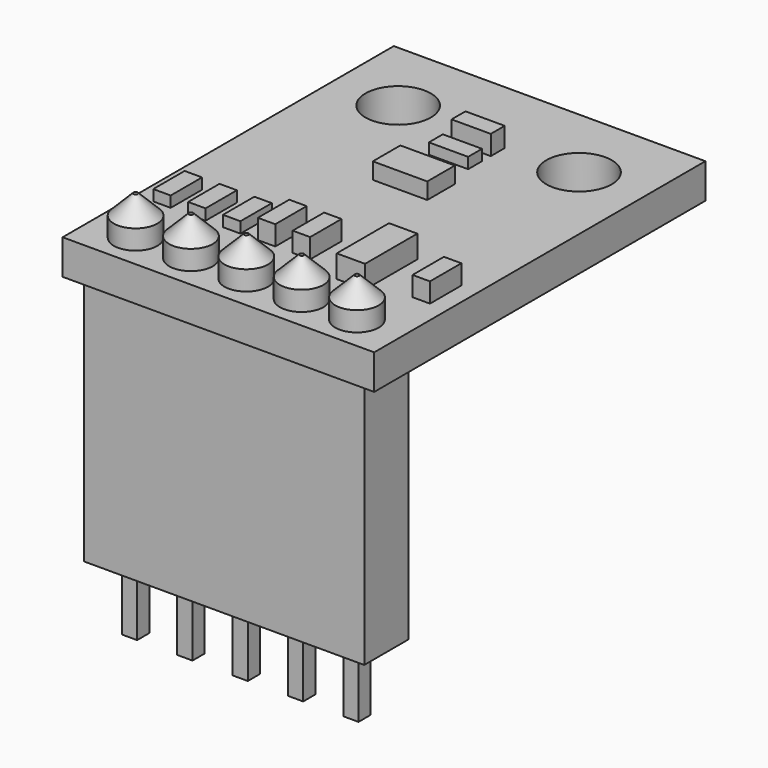
from build123d import *

# Parameters (mm, degrees)
F0_W      = 14.3
F0_H      = 19
F0_R      = 1
F0_W_2    = 0.8
F0_H_2    = 1.8
F0_W_3    = 1.3
F0_H_3    = 3
F0_W_4    = 2.5
F0_H_4    = 1.58
F0_W_5    = 1.8
F0_H_5    = 0.8
F0_R_2    = 1.5
F1_DEPTH  = 1.6
F2_DEPTH  = 0.75
F3_DEPTH  = 0.9
F4_DEPTH  = 0.5
F5_DEPTH  = 1.04
F6_DEPTH  = 1.8
F7_SIZE2  = 0.9
F7_SIZE   = 0.9
F8_W      = 0.7
F8_H      = 0.7
F9_DEPTH  = 14.4
F8_W_2    = 12.86
F8_H_2    = 2.54
F10_DEPTH = 11.4


with BuildPart() as f1:
    # F0 (on Top) → F1 (new body)
    with BuildSketch(Plane.XY):
        Rectangle(F0_W, F0_H)
        with Locations((-5.08, -7.9)):
            Circle(F0_R, mode=Mode.SUBTRACT)
        with Locations((-2.54, -7.9)):
            Circle(F0_R, mode=Mode.SUBTRACT)
        with BuildLine():
            ThreePointArc((0, -6.9), (1, -7.9), (0, -8.9))
            ThreePointArc((0, -8.9), (-1, -7.9), (0, -6.9))
        make_face(mode=Mode.SUBTRACT)
        with Locations((-5.95, -4.4)):
            Rectangle(F0_W_2, F0_H_2, mode=Mode.SUBTRACT)
        with Locations((-4.35, -4.4)):
            Rectangle(F0_W_2, F0_H_2, mode=Mode.SUBTRACT)
        with Locations((-2.75, -4.4)):
            Rectangle(F0_W_2, F0_H_2, mode=Mode.SUBTRACT)
        with Locations((-1.15, -4.4)):
            Rectangle(F0_W_2, F0_H_2, mode=Mode.SUBTRACT)
        with Locations((2.54, -7.9)):
            Circle(F0_R, mode=Mode.SUBTRACT)
        with Locations((5.08, -7.9)):
            Circle(F0_R, mode=Mode.SUBTRACT)
        with Locations((0.45, -4.4)):
            Rectangle(F0_W_2, F0_H_2, mode=Mode.SUBTRACT)
        with Locations((3.2, -4.4)):
            Rectangle(F0_W_3, F0_H_3, mode=Mode.SUBTRACT)
        with Locations((5.95, -4.4)):
            Rectangle(F0_W_2, F0_H_2, mode=Mode.SUBTRACT)
        with Locations((0, 1.71)):
            Rectangle(F0_W_4, F0_H_4, mode=Mode.SUBTRACT)
        with Locations((0, 4.1)):
            Rectangle(F0_W_5, F0_H_5, mode=Mode.SUBTRACT)
        with Locations((-4.15, 6)):
            Circle(F0_R_2, mode=Mode.SUBTRACT)
        with Locations((0, 5.4)):
            Rectangle(F0_W_5, F0_H_5, mode=Mode.SUBTRACT)
        with Locations((4.15, 6)):
            Circle(F0_R_2, mode=Mode.SUBTRACT)
        with Locations((0, 1.71)):
            Rectangle(F0_W_4, F0_H_4)
        with Locations((5.95, -4.4)):
            Rectangle(F0_W_2, F0_H_2)
        with Locations((3.2, -4.4)):
            Rectangle(F0_W_3, F0_H_3)
        with Locations((0.45, -4.4)):
            Rectangle(F0_W_2, F0_H_2)
        with Locations((-1.15, -4.4)):
            Rectangle(F0_W_2, F0_H_2)
        with Locations((-2.75, -4.4)):
            Rectangle(F0_W_2, F0_H_2)
        with Locations((-4.35, -4.4)):
            Rectangle(F0_W_2, F0_H_2)
        with Locations((-5.95, -4.4)):
            Rectangle(F0_W_2, F0_H_2)
        with Locations((0, 4.1)):
            Rectangle(F0_W_5, F0_H_5)
        with Locations((0, 5.4)):
            Rectangle(F0_W_5, F0_H_5)
        with Locations((-5.08, -7.9)):
            Circle(F0_R)
        with Locations((-2.54, -7.9)):
            Circle(F0_R)
        with BuildLine():
            ThreePointArc((0, -6.9), (-1, -7.9), (0, -8.9))
            ThreePointArc((0, -8.9), (1, -7.9), (0, -6.9))
        make_face()
        with Locations((2.54, -7.9)):
            Circle(F0_R)
        with Locations((5.08, -7.9)):
            Circle(F0_R)
    extrude(amount=-F1_DEPTH)

    # F0 (on Top) → F2 (join)
    with BuildSketch(Plane.XY):
        with Locations((0, 1.71)):
            Rectangle(F0_W_4, F0_H_4)
    extrude(amount=F2_DEPTH)

    # F0 (on Top) → F3 (join)
    with BuildSketch(Plane.XY):
        with Locations((0, 5.4)):
            Rectangle(F0_W_5, F0_H_5)
        with Locations((5.95, -4.4)):
            Rectangle(F0_W_2, F0_H_2)
        with Locations((0.45, -4.4)):
            Rectangle(F0_W_2, F0_H_2)
        with Locations((-1.15, -4.4)):
            Rectangle(F0_W_2, F0_H_2)
    extrude(amount=F3_DEPTH)

    # F0 (on Top) → F4 (join)
    with BuildSketch(Plane.XY):
        with Locations((0, 4.1)):
            Rectangle(F0_W_5, F0_H_5)
        with Locations((-2.75, -4.4)):
            Rectangle(F0_W_2, F0_H_2)
        with Locations((-4.35, -4.4)):
            Rectangle(F0_W_2, F0_H_2)
        with Locations((-5.95, -4.4)):
            Rectangle(F0_W_2, F0_H_2)
    extrude(amount=F4_DEPTH)

    # F0 (on Top) → F5 (join)
    with BuildSketch(Plane.XY):
        with Locations((3.2, -4.4)):
            Rectangle(F0_W_3, F0_H_3)
    extrude(amount=F5_DEPTH)

    # F0 (on Top) → F6 (join)
    with BuildSketch(Plane.XY):
        with Locations((-5.08, -7.9)):
            Circle(F0_R)
        with Locations((-2.54, -7.9)):
            Circle(F0_R)
        with BuildLine():
            ThreePointArc((0, -6.9), (-1, -7.9), (0, -8.9))
            ThreePointArc((0, -8.9), (1, -7.9), (0, -6.9))
        make_face()
        with Locations((2.54, -7.9)):
            Circle(F0_R)
        with Locations((5.08, -7.9)):
            Circle(F0_R)
    extrude(amount=F6_DEPTH)

    # F7
    f7_edges = [f1.edges().sort_by_distance(p)[0] for p in [
        (-6.08, -7.9, 1.8),
        (-3.54, -7.9, 1.8),
        (0, -6.9, 1.8),
        (1.54, -7.9, 1.8),
        (4.08, -7.9, 1.8),
    ]]
    chamfer(f7_edges, length=F7_SIZE, length2=F7_SIZE2)

    # F8 (on face) → F9 (join)
    with BuildSketch(Plane(origin=(0, 0, -1.6), x_dir=(1, 0, 0), z_dir=(0, 0, -1))):
        with Locations((-5.08, 7.9)):
            Rectangle(F8_W, F8_H)
        with Locations((-2.54, 7.9)):
            Rectangle(F8_W, F8_H)
        with Locations((0, 7.9)):
            Rectangle(F8_W, F8_H)
        with Locations((2.54, 7.9)):
            Rectangle(F8_W, F8_H)
        with Locations((5.08, 7.9)):
            Rectangle(F8_W, F8_H)
    extrude(amount=F9_DEPTH)

    # F8 (on face) → F10 (join)
    with BuildSketch(Plane(origin=(0, 0, -1.6), x_dir=(1, 0, 0), z_dir=(0, 0, -1))):
        with Locations((0, 7.9)):
            Rectangle(F8_W_2, F8_H_2)
        with Locations((-5.08, 7.9)):
            Rectangle(F8_W, F8_H, mode=Mode.SUBTRACT)
        with Locations((-2.54, 7.9)):
            Rectangle(F8_W, F8_H, mode=Mode.SUBTRACT)
        with Locations((0, 7.9)):
            Rectangle(F8_W, F8_H, mode=Mode.SUBTRACT)
        with Locations((2.54, 7.9)):
            Rectangle(F8_W, F8_H, mode=Mode.SUBTRACT)
        with Locations((5.08, 7.9)):
            Rectangle(F8_W, F8_H, mode=Mode.SUBTRACT)
    extrude(amount=F10_DEPTH)


solid = f1.part
